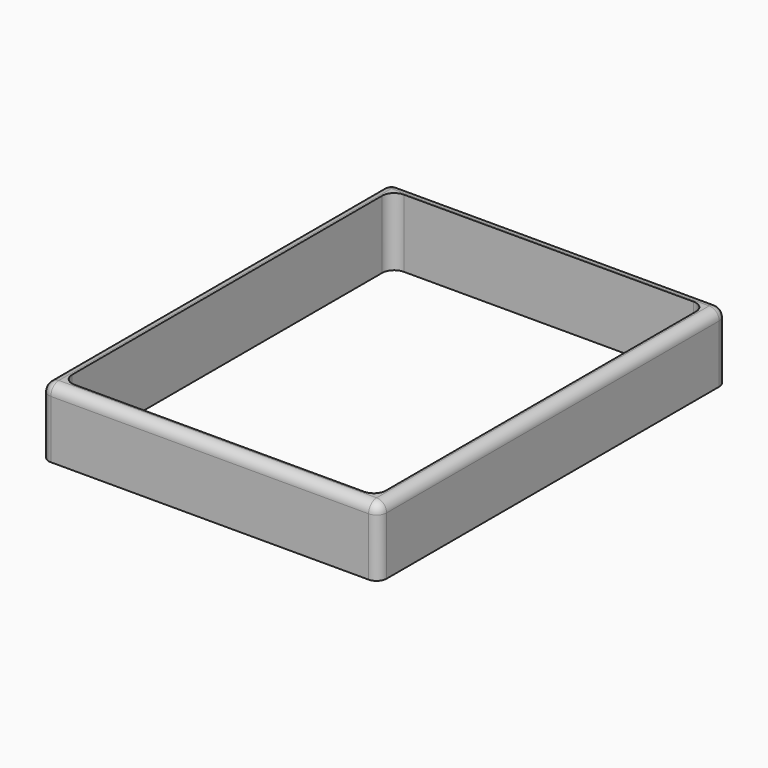
from build123d import *

# Parameters (mm, degrees)
SKETCH048_W   = 84.5
SKETCH048_H   = 109
SKETCH048_W_2 = 78.5
SKETCH048_H_2 = 103
PAD011_DEPTH  = 17
FILLET021_R   = 3
FILLET023_R   = 2.5


with BuildPart() as part:
    # Sketch048 → Pad011 (new body)
    with BuildSketch(Plane.XY):
        with Locations((4.75, 6.5)):
            Rectangle(SKETCH048_W, SKETCH048_H)
        with Locations((4.75, 6.5)):
            Rectangle(SKETCH048_W_2, SKETCH048_H_2, mode=Mode.SUBTRACT)
    extrude(amount=-PAD011_DEPTH)

    # Fillet021
    fillet021_edges = [part.edges().sort_by_distance(p)[0] for p in [
        (-34.5, 58, -8.5),
        (-34.5, -45, -8.5),
        (44, 58, -8.5),
        (44, -45, -8.5),
    ]]
    fillet(fillet021_edges, radius=FILLET021_R)

    # Fillet023
    fillet023_edges = [part.edges().sort_by_distance(p)[0] for p in [
        (47, 61, -8.5),
        (-37.5, 61, -8.5),
        (47, -48, -8.5),
        (-37.5, -48, -8.5),
        (-37.5, 6.5, 0),
        (4.75, -48, 0),
        (47, 6.5, 0),
        (4.75, 61, 0),
    ]]
    fillet(fillet023_edges, radius=FILLET023_R)


with BuildPart() as part_1:
    # Body010 placement: moved
    add(part.part.moved(Location((0, 0, 4.5))))


solid = part_1.part
